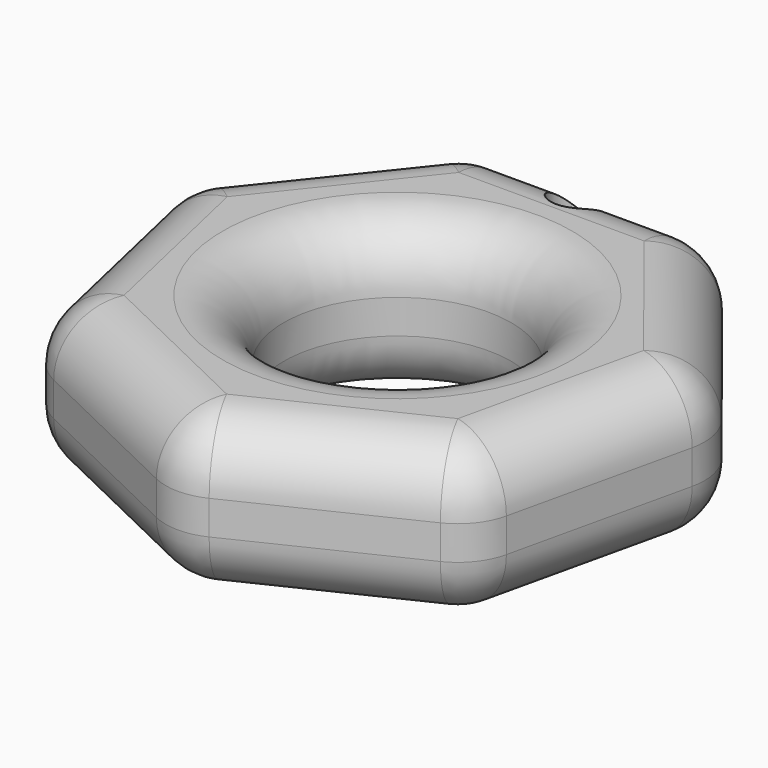
from build123d import *

# Parameters (mm, degrees)
F0_R     = 9.5
F1_DEPTH = 13
F2_R     = 5.08
F4_D     = 4


with BuildPart() as f1:
    # F0 (on Top) → F1 (new body)
    with BuildSketch(Plane.XY):
        Polygon((10.1788821743, 21.1366666282), (-10.1788821743, 21.1366666282), (-22.8717406344, 5.2203255477), (-18.3417118982, -14.6270271454), (0, -23.4599300611), (18.3417118982, -14.6270271454), (22.8717406344, 5.2203255477), align=None)
        Circle(F0_R, mode=Mode.SUBTRACT)
    extrude(amount=F1_DEPTH)

    # F2
    f2_edges = [f1.edges().sort_by_distance(p)[0] for p in [
        (-9.5, 0, 0),
        (-9.5, 0, 13),
        (-10.178882, 21.136667, 6.5),
        (-22.871741, 5.220326, 6.5),
        (-16.525311, 13.178496, 0),
        (-16.525311, 13.178496, 13),
        (-18.341712, -14.627027, 6.5),
        (-20.606726, -4.703351, 0),
        (-20.606726, -4.703351, 13),
        (0, -23.45993, 6.5),
        (-9.170856, -19.043479, 0),
        (-9.170856, -19.043479, 13),
        (18.341712, -14.627027, 6.5),
        (9.170856, -19.043479, 0),
        (9.170856, -19.043479, 13),
        (22.871741, 5.220326, 6.5),
        (20.606726, -4.703351, 0),
        (20.606726, -4.703351, 13),
        (10.178882, 21.136667, 6.5),
        (16.525311, 13.178496, 0),
        (16.525311, 13.178496, 13),
        (0, 21.136667, 0),
        (0, 21.136667, 13),
    ]]
    fillet(f2_edges, radius=F2_R)

    # F4 (through all)
    with Locations(Plane(origin=(0, 0, 0), x_dir=(1, 0, 0), z_dir=(0, 0, -1))):
        with Locations((0, -18.5665413737)):
            Hole(F4_D / 2)


solid = f1.part
